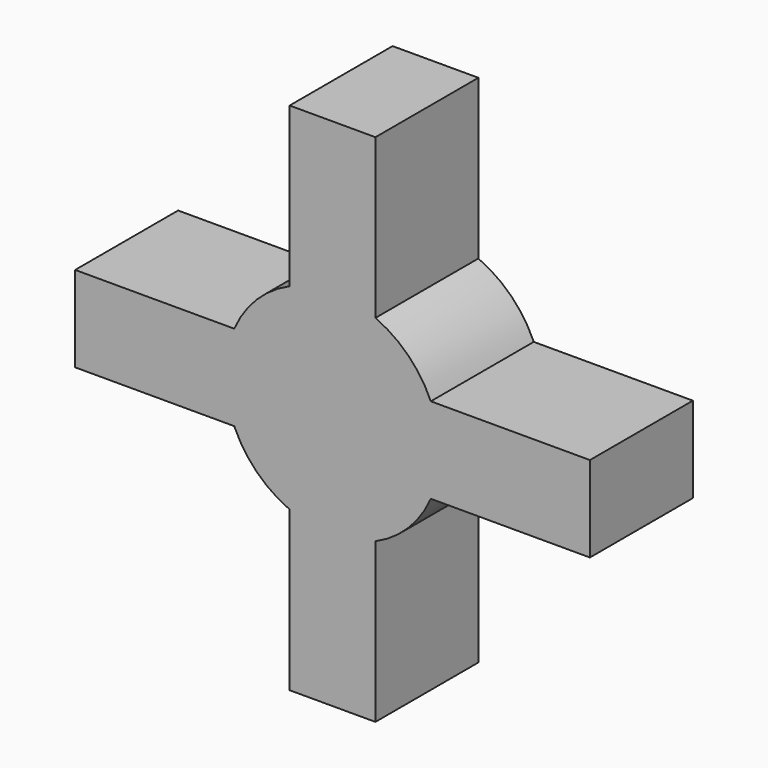
from build123d import *

# Parameters (mm, degrees)
F0_W     = 76.2
F0_H     = 76.2
F2_DEPTH = 19.05
F1_W     = 31.75
F1_H     = 31.75
F3_DEPTH = 19.051
F4_R     = 15.875
F5_DEPTH = 19.05


with BuildPart() as f2:
    # F0 (on Front) → F2 (new body)
    with BuildSketch(Plane.XZ):
        Rectangle(F0_W, F0_H)
    extrude(amount=F2_DEPTH)

    # F1 (on Front) → F3 (cut, through all)
    with BuildSketch(Plane.XZ):
        with Locations((-22.225, 22.225)):
            Rectangle(F1_W, F1_H)
        with Locations((-22.225, -22.225)):
            Rectangle(F1_W, F1_H)
        with Locations((22.225, -22.225)):
            Rectangle(F1_W, F1_H)
        with Locations((22.225, 22.225)):
            Rectangle(F1_W, F1_H)
    extrude(amount=F3_DEPTH, mode=Mode.SUBTRACT)

    # F4 (on Front) → F5 (join)
    with BuildSketch(Plane.XZ):
        Circle(F4_R)
    extrude(amount=F5_DEPTH)


solid = f2.part
